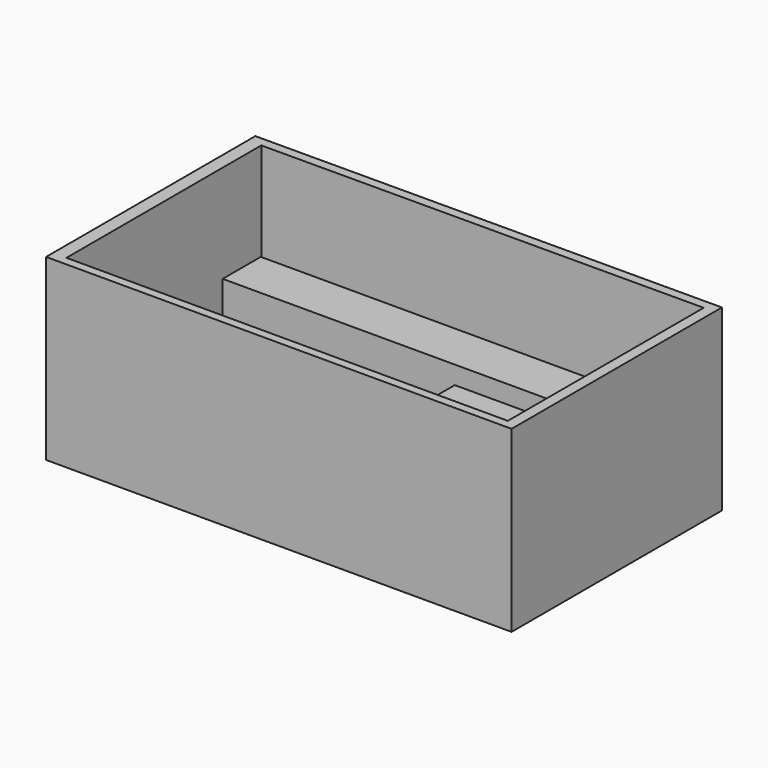
from build123d import *

# Parameters (mm, degrees)
F1_DEPTH = 76.708
F2_W     = 133.829683
F2_H     = 23.887876
F3_DEPTH = 32.512
F4_W     = 55.258706
F4_H     = 40.292808
F5_DEPTH = 55.372
F6_W     = 189.376198
F6_H     = 104.761295
F7_DEPTH = 3.81
F8_W     = 187.649362
F8_H     = 20.434209
F9_DEPTH = 35.306


with BuildPart() as f1:
    # F0 (on Top) → F1 (new body)
    with BuildSketch(Plane.XY):
        Polygon((99.436894, 56.841634), (-100.300305, 56.266025), (-100.300305, -55.97822), (99.436894, -55.97822), align=None)
        Polygon((-94.544195, -52.236743), (-94.544195, 52.236743), (94.832003, 52.81236), (94.832003, -52.236743), align=None, mode=Mode.SUBTRACT)
    extrude(amount=F1_DEPTH)

    # F2 (on Top) → F3 (join)
    with BuildSketch(Plane.XY):
        with Locations((-27.773253, -40.292805)):
            Rectangle(F2_W, F2_H)
    extrude(amount=F3_DEPTH)

    # F4 (on Top) → F5 (join)
    with BuildSketch(Plane.XY):
        with Locations((66.770941, -31.226925)):
            Rectangle(F4_W, F4_H)
    extrude(amount=F5_DEPTH)

    # F6 (on Top) → F7 (join)
    with BuildSketch(Plane.XY):
        with Locations((4e-06, -0.143905)):
            Rectangle(F6_W, F6_H)
    extrude(amount=F7_DEPTH)

    # F8 (on Top) → F9 (join)
    with BuildSketch(Plane.XY):
        with Locations((4e-06, 40.868416)):
            Rectangle(F8_W, F8_H)
    extrude(amount=F9_DEPTH)


solid = f1.part
